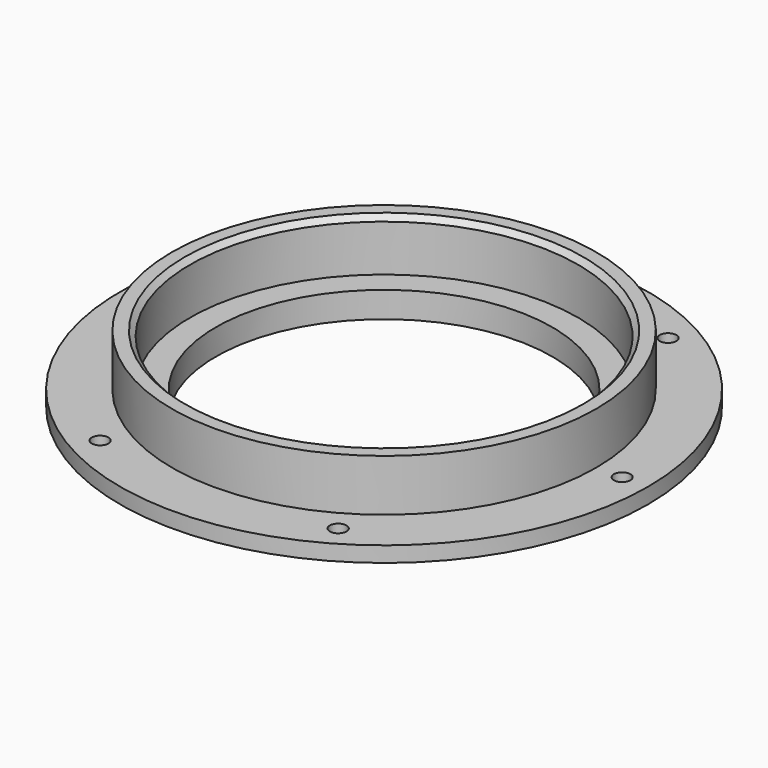
from build123d import *

# Parameters (mm, degrees)
SKETCH_R        = 35
SKETCH_R_2      = 32.5
PAD_DEPTH       = 2
SKETCH001_R     = 51
SKETCH001_R_2   = 32.5
PAD001_DEPTH    = 3
SKETCH002_R     = 41
SKETCH002_R_2   = 37.5
PAD002_DEPTH    = 10
SKETCH003_R     = 1.6
POCKET_DEPTH    = 5.001
CHAMFER_SIZE    = 0.5
CHAMFER001_SIZE = 1


with BuildPart() as part:
    # Sketch → Pad (new body)
    with BuildSketch(Plane.XY):
        Circle(SKETCH_R)
        Circle(SKETCH_R_2, mode=Mode.SUBTRACT)
    extrude(amount=PAD_DEPTH)

    # Sketch001 (on Face4 of Pad) → Pad001 (join)
    with BuildSketch(Plane.XY.offset(2)):
        Circle(SKETCH001_R)
        Circle(SKETCH001_R_2, mode=Mode.SUBTRACT)
    extrude(amount=PAD001_DEPTH)

    # Sketch002 (on Face7 of Pad001) → Pad002 (join)
    with BuildSketch(Plane.XY.offset(5)):
        Circle(SKETCH002_R)
        Circle(SKETCH002_R_2, mode=Mode.SUBTRACT)
    extrude(amount=PAD002_DEPTH)

    # Sketch003 (on Face7 of Pad002) → Pocket (cut, through all)
    with BuildSketch(Plane.XY.offset(5)):
        with Locations((-23, 39.837169)):
            Circle(SKETCH003_R)
        with Locations((23, 39.837169)):
            Circle(SKETCH003_R)
        with Locations((46, 0)):
            Circle(SKETCH003_R)
        with Locations((23, -39.837169)):
            Circle(SKETCH003_R)
        with Locations((-23, -39.837169)):
            Circle(SKETCH003_R)
        with Locations((-46, 0)):
            Circle(SKETCH003_R)
    extrude(amount=-POCKET_DEPTH, mode=Mode.SUBTRACT)

    # Chamfer
    chamfer_edges = [part.edges().sort_by_distance(p)[0] for p in [
        (-35, 0, 0),
    ]]
    chamfer(chamfer_edges, length=CHAMFER_SIZE)

    # Chamfer001
    chamfer001_edges = [part.edges().sort_by_distance(p)[0] for p in [
        (-37.5, 0, 15),
    ]]
    chamfer(chamfer001_edges, length=CHAMFER001_SIZE)


solid = part.part
